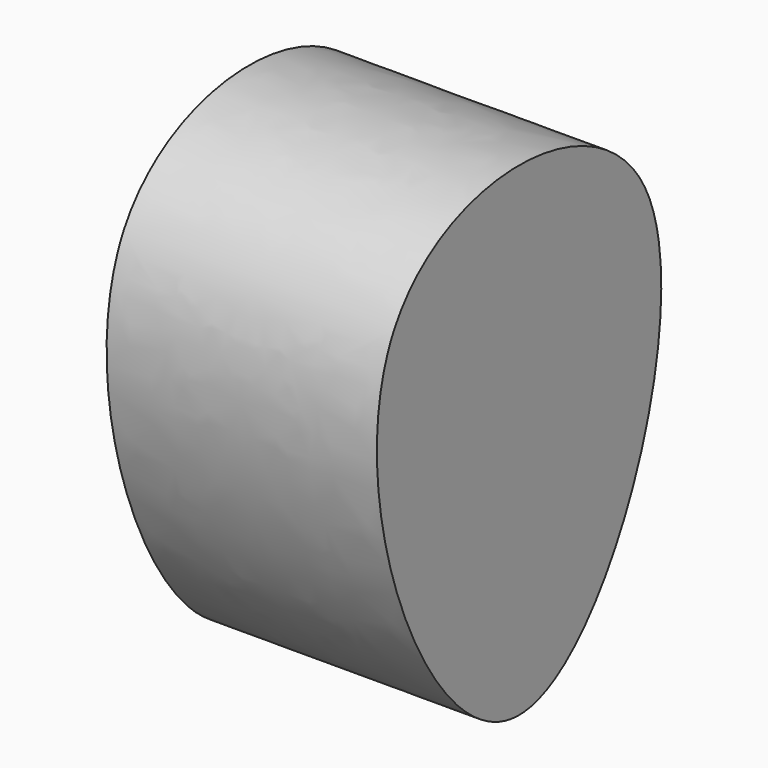
from build123d import *

# Parameters (mm, degrees)
F1_DEPTH = 29.972


with BuildPart() as f1:
    # F0 (on Right) → F1 (new body)
    with BuildSketch(Plane.YZ):
        with BuildLine():
            add(Edge.make_bspline(
                [(-17.2947384417, 44.7217480186), (-10.6612723261, 56.6761832407), (35.7661691524, 56.6761833015), (5.312e-07, -30.6467429582), (-25.1048999114, 30.6467429253), (-17.2947384417, 44.7217480186)],
                knots=[0, 0, 0, 0, 0.2980825475, 0.6490412725, 1, 1, 1, 1], degree=3))
        make_face()
    extrude(amount=F1_DEPTH)


solid = f1.part
